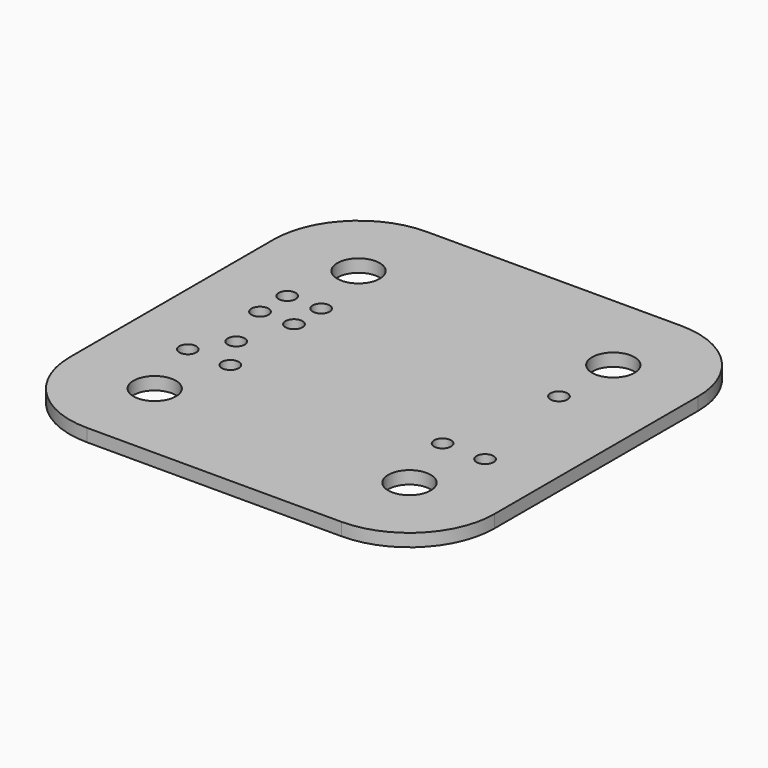
from build123d import *

# Parameters (mm, degrees)
F0_R     = 2.5
F0_R_2   = 1
F1_DEPTH = 1.5


with BuildPart() as f1:
    # F0 (on Top) → F1 (new body)
    with BuildSketch(Plane.XY):
        with BuildLine():
            ThreePointArc((0, 10), (2.928932, 2.928932), (10, 0))
            Line((10, 0), (40, 0))
            ThreePointArc((40, 0), (47.071068, 2.928932), (50, 10))
            Line((50, 10), (50, 40))
            ThreePointArc((50, 40), (47.071068, 47.071068), (40, 50))
            Line((40, 50), (10, 50))
            ThreePointArc((10, 50), (2.928932, 47.071068), (0, 40))
            Line((0, 40), (0, 10))
        make_face()
        with Locations((10, 10)):
            Circle(F0_R, mode=Mode.SUBTRACT)
        with Locations((7.5, 18)):
            Circle(F0_R_2, mode=Mode.SUBTRACT)
        with Locations((10, 22)):
            Circle(F0_R_2, mode=Mode.SUBTRACT)
        with Locations((12.5, 18)):
            Circle(F0_R_2, mode=Mode.SUBTRACT)
        with Locations((40, 10)):
            Circle(F0_R, mode=Mode.SUBTRACT)
        with Locations((37.5, 18)):
            Circle(F0_R_2, mode=Mode.SUBTRACT)
        with Locations((42.5, 18)):
            Circle(F0_R_2, mode=Mode.SUBTRACT)
        with Locations((8, 28)):
            Circle(F0_R_2, mode=Mode.SUBTRACT)
        with Locations((12, 28)):
            Circle(F0_R_2, mode=Mode.SUBTRACT)
        with Locations((8, 32)):
            Circle(F0_R_2, mode=Mode.SUBTRACT)
        with Locations((12, 32)):
            Circle(F0_R_2, mode=Mode.SUBTRACT)
        with Locations((10, 40)):
            Circle(F0_R, mode=Mode.SUBTRACT)
        with Locations((40, 32)):
            Circle(F0_R_2, mode=Mode.SUBTRACT)
        with Locations((40, 40)):
            Circle(F0_R, mode=Mode.SUBTRACT)
    extrude(amount=F1_DEPTH)


solid = f1.part
